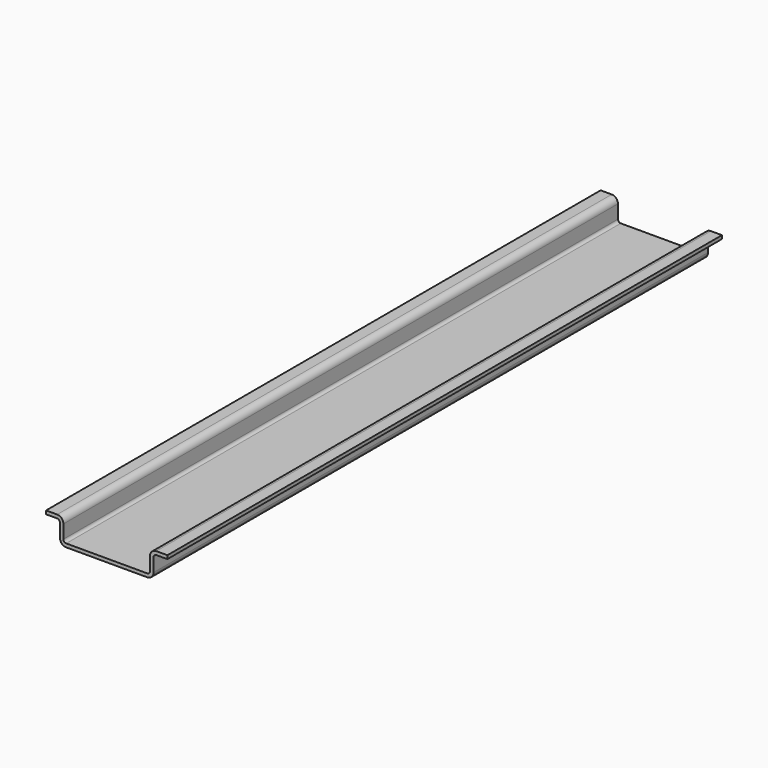
from build123d import *

# Parameters (mm, degrees)
F1_DEPTH = 200


with BuildPart() as f1:
    # F0 (on Front) → F1 (new body)
    with BuildSketch(Plane.XZ):
        with BuildLine():
            Line((-23.4, 0), (0, 0))
            ThreePointArc((0, 0), (1.272792, 0.527208), (1.8, 1.8))
            Line((1.8, 1.8), (1.8, 5.7))
            ThreePointArc((1.8, 5.7), (2.034315, 6.265685), (2.6, 6.5))
            Line((2.6, 6.5), (5.7996, 6.5))
            Line((5.7996, 6.5), (5.8004, 7.5))
            Line((5.8004, 7.5), (2.6, 7.5))
            ThreePointArc((2.6, 7.5), (1.327208, 6.972792), (0.8, 5.7))
            Line((0.8, 5.7), (0.8, 1.8))
            ThreePointArc((0.8, 1.8), (0.565685, 1.234315), (0, 1))
            Line((0, 1), (-23.4, 1))
            ThreePointArc((-23.4, 1), (-23.965685, 1.234315), (-24.2, 1.8))
            Line((-24.2, 1.8), (-24.2, 5.7))
            ThreePointArc((-24.2, 5.7), (-24.727208, 6.972792), (-26, 7.5))
            Line((-26, 7.5), (-29.2004, 7.5))
            Line((-29.2004, 7.5), (-29.2004, 6.5))
            Line((-29.2004, 6.5), (-26, 6.5))
            ThreePointArc((-26, 6.5), (-25.434315, 6.265685), (-25.2, 5.7))
            Line((-25.2, 5.7), (-25.2, 1.8))
            ThreePointArc((-25.2, 1.8), (-24.672792, 0.527208), (-23.4, 0))
        make_face()
    extrude(amount=F1_DEPTH)


solid = f1.part
